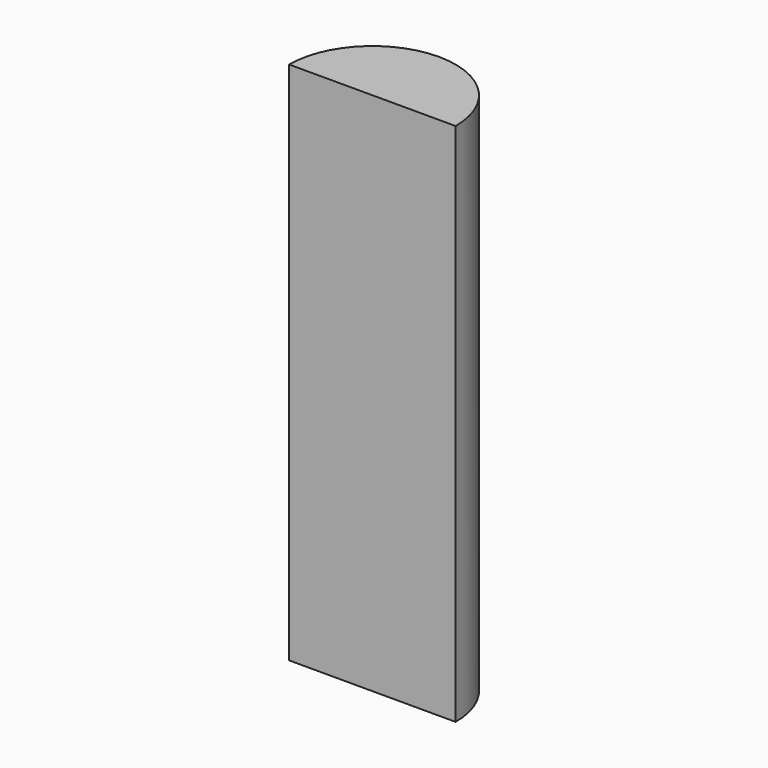
from build123d import *

# Parameters (mm, degrees)
F0_R     = 1.27
F1_DEPTH = 8.001
F4_DEPTH = 52.8574


with BuildPart() as f1:
    # F0 (on Top) → F1 (new body)
    with BuildSketch(Plane.XY):
        Circle(F0_R)
    extrude(amount=F1_DEPTH)

    # F3 (on offset) → F4 (cut)
    with BuildSketch(Plane.XY.offset(33.401)):
        with BuildLine():
            Line((1.34956, 0), (-1.353624, 0))
            ThreePointArc((-1.353624, 0), (-0.002032, -1.503464), (1.34956, 0))
        make_face()
    extrude(amount=-F4_DEPTH, mode=Mode.SUBTRACT)


solid = f1.part
